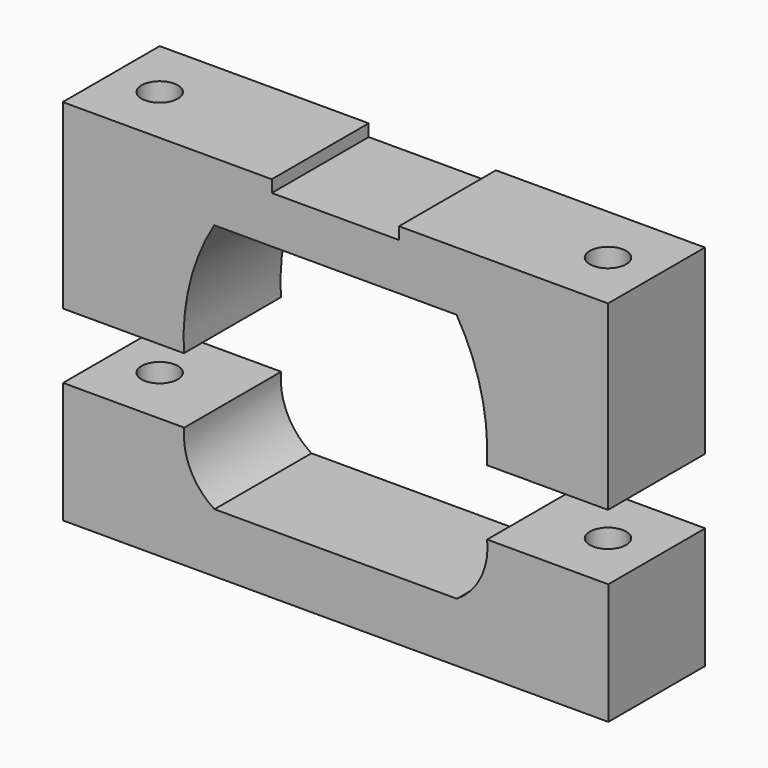
from build123d import *

# Parameters (mm, degrees)
F1_DEPTH = 20
F3_DEPTH = 20
F4_R     = 3
F5_DEPTH = 150
F6_W     = 21
F6_H     = 30
F7_DEPTH = 2


with BuildPart() as f1:
    # F0 (on Front) → F1 (new body)
    with BuildSketch(Plane.XZ):
        with BuildLine():
            Line((45, 0), (-45, 0))
            Line((-45, 0), (-45, -30))
            Line((-45, -30), (-25, -30))
            ThreePointArc((-25, -30), (-24.040537, -19.504195), (-20, -9.769898))
            Line((-20, -9.769898), (20, -9.769898))
            ThreePointArc((20, -9.769898), (24.040537, -19.504195), (25, -30))
            Line((25, -30), (45, -30))
            Line((45, -30), (45, 0))
        make_face()
    extrude(amount=F1_DEPTH)


with BuildPart() as f3:
    # F2 (on Front) → F3 (new body)
    with BuildSketch(Plane.XZ):
        with BuildLine():
            Line((-44.948185, -60.794169), (45.051815, -60.794169))
            Line((45.051815, -60.794169), (45.051815, -40.794169))
            Line((45.051815, -40.794169), (25.051815, -40.794169))
            ThreePointArc((25.051815, -40.794169), (24.016941, -46.625337), (20.051876, -51.024397))
            Line((20.051876, -51.024397), (-19.948124, -51.024397))
            ThreePointArc((-19.948124, -51.024397), (-23.913259, -46.625358), (-24.948185, -40.794169))
            Line((-24.948185, -40.794169), (-44.948185, -40.794169))
            Line((-44.948185, -40.794169), (-44.948185, -60.794169))
        make_face()
    extrude(amount=F3_DEPTH)


with BuildPart() as f5_tool:
    # F4 (on Top) → F5 (new body)
    with BuildSketch(Plane.XY):
        with Locations((-37, -10)):
            Circle(F4_R)
        with Locations((37, -10)):
            Circle(F4_R)
    extrude(amount=-F5_DEPTH)


with BuildPart() as f1_1:
    add(f1.part)

    # F5: cut by f5_tool
    add(f5_tool.part, mode=Mode.SUBTRACT)

    # F6 (on Top) → F7 (cut)
    with BuildSketch(Plane.XY):
        with Locations((0, -9.132032)):
            Rectangle(F6_W, F6_H)
    extrude(amount=-F7_DEPTH, mode=Mode.SUBTRACT)


with BuildPart() as f3_1:
    add(f3.part)

    # F5: cut by f5_tool
    add(f5_tool.part, mode=Mode.SUBTRACT)


solid = Compound([f1_1.part, f3_1.part])
